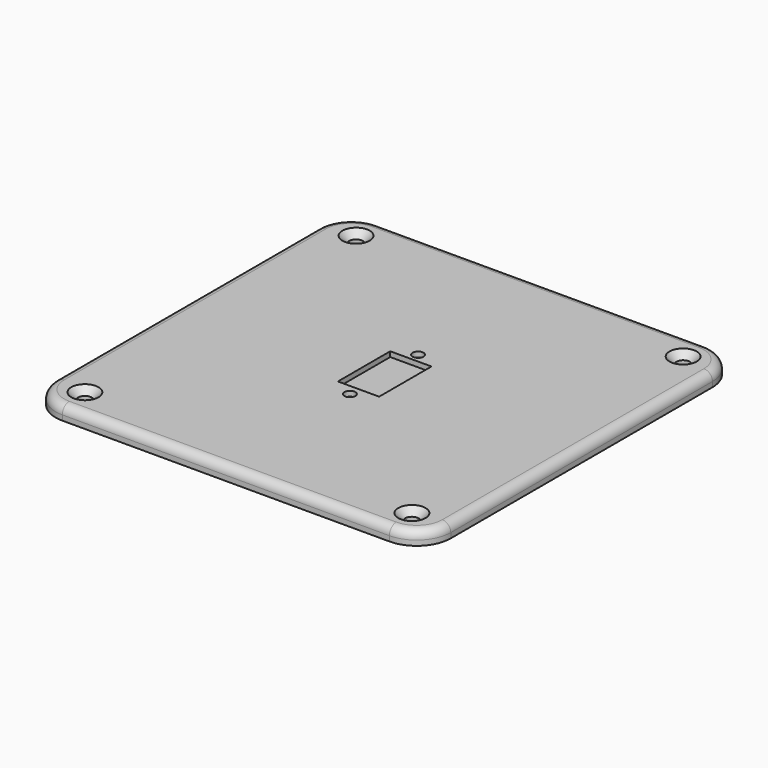
from build123d import *

# Parameters (mm, degrees)
SKETCH_W        = 75
SKETCH_H        = 55
PAD_DEPTH       = 2.5
SKETCH001_R     = 8.1
SKETCH001_R_2   = 1.6
SKETCH001_R_3   = 1.35
SKETCH001_W     = 12.1
SKETCH001_H     = 19.2
SKETCH001_W_2   = 8.3
SKETCH001_H_2   = 15.75
POCKET_DEPTH    = 2.501
CHAMFER_SIZE    = 1
FILLET_R        = 1
SKETCH003_W     = 55
SKETCH003_H     = 35
PAD001_DEPTH    = 2.5
SKETCH002_R     = 1.6
SKETCH002_R_2   = 1.35
SKETCH002_W     = 12.1
SKETCH002_H     = 19.2
SKETCH002_W_2   = 8.3
SKETCH002_H_2   = 15.75
POCKET001_DEPTH = 2.501
CHAMFER001_SIZE = 1
PAD002_DEPTH    = 25
POCKET002_DEPTH = 55.001
SKETCH006_R     = 2
POCKET003_DEPTH = 2.501
CHAMFER002_SIZE = 1
SKETCH007_W     = 116
SKETCH007_H     = 116
PAD003_DEPTH    = 4
SKETCH008_R     = 1.6
SKETCH008_R_2   = 2
SKETCH008_W     = 12.1
SKETCH008_H     = 19.2
POCKET004_DEPTH = 4.001
FILLET001_R     = 10
CHAMFER003_SIZE = 2
FILLET002_R     = 2.5


with BuildPart() as body:
    # Sketch → Pad (new body)
    with BuildSketch(Plane.XY):
        Rectangle(SKETCH_W, SKETCH_H)
    extrude(amount=PAD_DEPTH)

    # Sketch001 (on Face6 of Pad) → Pocket (cut, through all)
    with BuildSketch(Plane.XY.offset(2.5)):
        with Locations((22, 0)):
            Circle(SKETCH001_R)
        with Locations((-2.528, 12.5)):
            Circle(SKETCH001_R_2)
        with Locations((-2.528, -12.5)):
            Circle(SKETCH001_R_2)
        with Locations((-24.339, 10.25)):
            Circle(SKETCH001_R_3)
        with Locations((-24.339, -10.25)):
            Circle(SKETCH001_R_3)
        with Locations((-33.5, 23.5)):
            Circle(SKETCH001_R_2)
        with Locations((-33.5, -23.5)):
            Circle(SKETCH001_R_2)
        with Locations((32, 23.5)):
            Circle(SKETCH001_R_2)
        with Locations((32, -23.5)):
            Circle(SKETCH001_R_2)
        with Locations((-2.528, 0.25)):
            Rectangle(SKETCH001_W, SKETCH001_H)
        with Locations((-24.339, 0)):
            Rectangle(SKETCH001_W_2, SKETCH001_H_2)
    extrude(amount=-POCKET_DEPTH, mode=Mode.SUBTRACT)

    # Chamfer
    chamfer_edges = [body.edges().sort_by_distance(p)[0] for p in [
        (-35.1, 23.5, 2.5),
        (30.4, 23.5, 2.5),
        (-35.1, -23.5, 2.5),
        (30.4, -23.5, 2.5),
        (-25.689, 10.25, 2.5),
        (-25.689, -10.25, 2.5),
    ]]
    chamfer(chamfer_edges, length=CHAMFER_SIZE)

    # Fillet
    fillet_edges = [body.edges().sort_by_distance(p)[0] for p in [
        (-37.5, 0, 2.5),
        (0, 27.5, 2.5),
        (37.5, 0, 2.5),
        (0, -27.5, 2.5),
    ]]
    fillet(fillet_edges, radius=FILLET_R)


with BuildPart() as body001:
    # Sketch003 → Pad001 (new body)
    with BuildSketch(Plane.XY):
        Rectangle(SKETCH003_W, SKETCH003_H)
    extrude(amount=PAD001_DEPTH)

    # Sketch002 (on Face6 of Pad001) → Pocket001 (cut, through all)
    with BuildSketch(Plane.XY.offset(2.5)):
        with Locations((10.426, 12.5)):
            Circle(SKETCH002_R)
        with Locations((10.426, -12.5)):
            Circle(SKETCH002_R)
        with Locations((-11.385, 10.25)):
            Circle(SKETCH002_R_2)
        with Locations((-11.385, -10.25)):
            Circle(SKETCH002_R_2)
        with Locations((10.426, 0.25)):
            Rectangle(SKETCH002_W, SKETCH002_H)
        with Locations((-11.385, 0)):
            Rectangle(SKETCH002_W_2, SKETCH002_H_2)
    extrude(amount=-POCKET001_DEPTH, mode=Mode.SUBTRACT)

    # Chamfer001
    chamfer001_edges = [body001.edges().sort_by_distance(p)[0] for p in [
        (-12.735, 10.25, 2.5),
        (-12.735, -10.25, 2.5),
    ]]
    chamfer(chamfer001_edges, length=CHAMFER001_SIZE)

    # Sketch004 (on Face19 of Chamfer001) → Pad002 (join)
    with BuildSketch(Plane(origin=(0, 0, 0), x_dir=(1, 0, 0), z_dir=(0, 0, -1))):
        Polygon((-27.5, 17.5), (-27.5, -17.5), (27.5, -17.5), (27.5, 17.5), (25, 17.5), (25, -15), (-25, -15), (-25, 17.5), align=None)
    extrude(amount=PAD002_DEPTH)

    # Sketch005 (on Face19 of Pad002) → Pocket002 (cut, through all)
    with BuildSketch(Plane(origin=(-27.5, 0, 0), x_dir=(0, -1, 0), z_dir=(-1, 0, 0))):
        Polygon((17.5, 0), (-14.518, -25.425), (18.872, -25.425), (18.872, 0), align=None)
    extrude(amount=-POCKET002_DEPTH, mode=Mode.SUBTRACT)

    # Sketch006 (on Face28 of Pocket002) → Pocket003 (cut, through all)
    with BuildSketch(Plane.XZ.offset(-15)):
        with Locations((-20.5, -12.72)):
            Circle(SKETCH006_R)
        with Locations((20.5, -12.72)):
            Circle(SKETCH006_R)
    extrude(amount=-POCKET003_DEPTH, mode=Mode.SUBTRACT)

    # Chamfer002
    chamfer002_edges = [body001.edges().sort_by_distance(p)[0] for p in [
        (18.5, 15, -12.72),
        (-22.5, 15, -12.72),
    ]]
    chamfer(chamfer002_edges, length=CHAMFER002_SIZE)


with BuildPart() as body002:
    # Sketch007 → Pad003 (new body)
    with BuildSketch(Plane.XY):
        Rectangle(SKETCH007_W, SKETCH007_H)
    extrude(amount=PAD003_DEPTH)

    # Sketch008 (on Face6 of Pad003) → Pocket004 (cut, through all)
    with BuildSketch(Plane.XY.offset(4)):
        with Locations((0, 12.5)):
            Circle(SKETCH008_R)
        with Locations((0, -12.5)):
            Circle(SKETCH008_R)
        with Locations((-48, 49.75)):
            Circle(SKETCH008_R_2)
        with Locations((-48, -49.75)):
            Circle(SKETCH008_R_2)
        with Locations((48, 49.75)):
            Circle(SKETCH008_R_2)
        with Locations((48, -49.75)):
            Circle(SKETCH008_R_2)
        with Locations((0, 0.25)):
            Rectangle(SKETCH008_W, SKETCH008_H)
    extrude(amount=-POCKET004_DEPTH, mode=Mode.SUBTRACT)

    # Fillet001
    fillet001_edges = [body002.edges().sort_by_distance(p)[0] for p in [
        (-58, -58, 2),
        (58, -58, 2),
        (58, 58, 2),
        (-58, 58, 2),
    ]]
    fillet(fillet001_edges, radius=FILLET001_R)

    # Chamfer003
    chamfer003_edges = [body002.edges().sort_by_distance(p)[0] for p in [
        (46, -49.75, 4),
        (46, 49.75, 4),
        (-50, 49.75, 4),
        (-50, -49.75, 4),
    ]]
    chamfer(chamfer003_edges, length=CHAMFER003_SIZE)

    # Fillet002
    fillet002_edges = [body002.edges().sort_by_distance(p)[0] for p in [
        (0, 58, 4),
        (55.071068, 55.071068, 4),
        (58, 0, 4),
        (55.071068, -55.071068, 4),
        (0, -58, 4),
        (-55.071068, -55.071068, 4),
        (-58, 0, 4),
        (-55.071068, 55.071068, 4),
    ]]
    fillet(fillet002_edges, radius=FILLET002_R)


solid = Compound([body.part, body001.part, body002.part])
